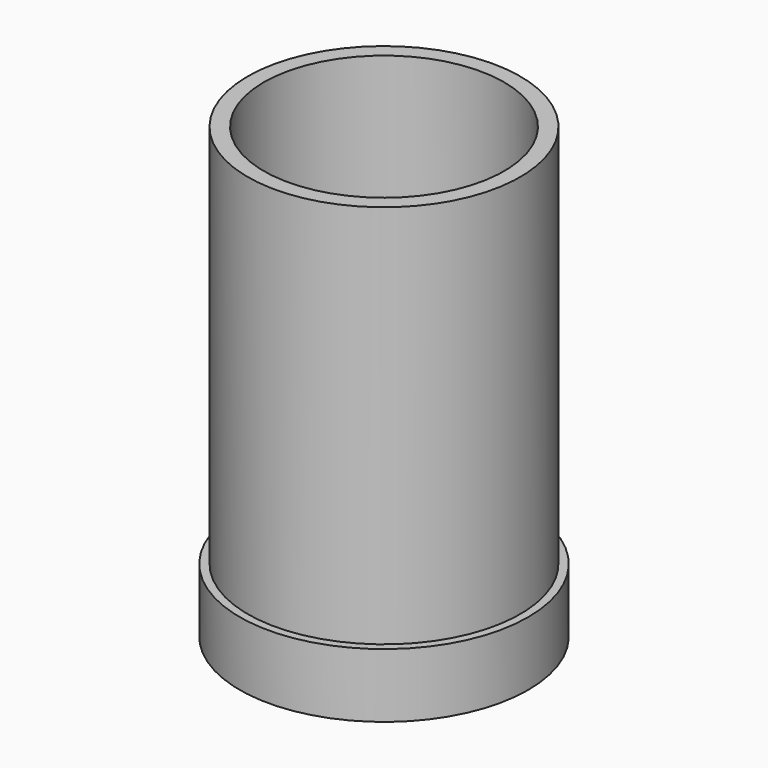
from build123d import *

# Parameters (mm, degrees)
F0_W = 3.175
F0_H = 19.05


with BuildPart() as f1:
    # F0 (on Front) → F1 (revolve)
    with BuildSketch(Plane.XZ):
        Polygon((-57.15, 0), (0, 0), (0, 6.35), (-47.625, 6.35), (-53.975, 6.35), (-57.15, 6.35), align=None)
        with Locations((-55.5625, 15.875)):
            Rectangle(F0_W, F0_H)
        Polygon((-53.975, 6.35), (-47.625, 6.35), (-47.625, 177.8), (-53.975, 177.8), (-53.975, 25.4), align=None)
    revolve(axis=Axis((0, 0, 3.175), (0, 0, 1)))


solid = f1.part
